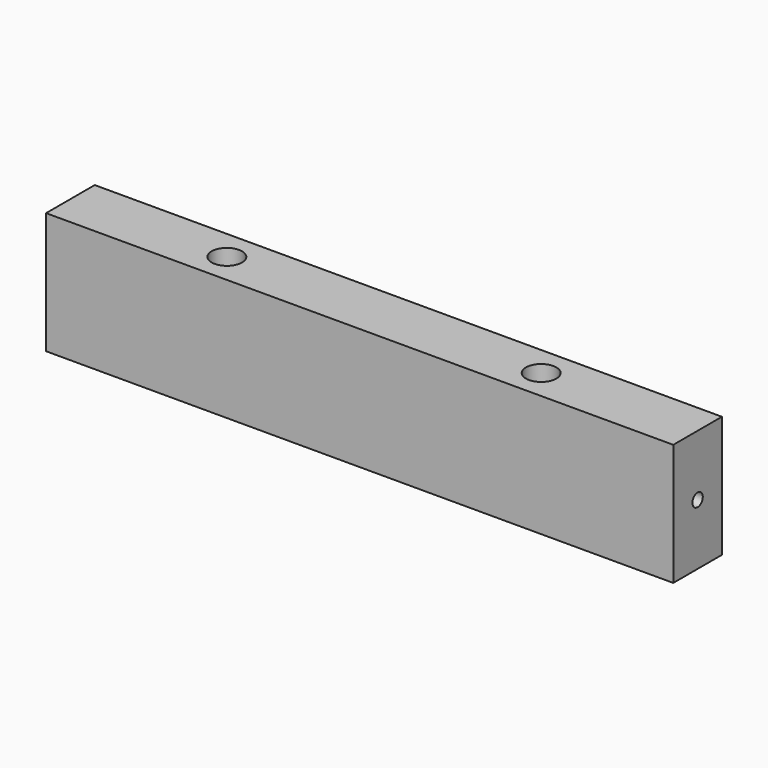
from build123d import *

# Parameters (mm, degrees)
F0_W           = 12.7
F0_H           = 25.4
F1_DEPTH       = 131
F3_D           = 3.5
F3_CBORE_D     = 6.35
F3_CBORE_DEPTH = 18.4
F5_D           = 2.7051
F5_DEPTH       = 12.7
F5_TIP         = 0.8126940303
F7_D           = 2.7051
F7_DEPTH       = 12.7
F7_TIP         = 0.8126940303


with BuildPart() as f1:
    # F0 (on Right) → F1 (new body)
    with BuildSketch(Plane.YZ):
        Rectangle(F0_W, F0_H)
    extrude(amount=F1_DEPTH)

    # F3 (through all)
    with Locations(Plane.XY.offset(12.7)):
        with Locations((32.675, 0), (98.325, 0)):
            CounterBoreHole(F3_D / 2, F3_CBORE_D / 2, F3_CBORE_DEPTH)

    # F5
    with Locations(Plane.YZ.offset(131)):
        with Locations((0, 0)):
            Hole(F5_D / 2, depth=F5_DEPTH)
            with Locations((0, 0, -(F5_DEPTH + F5_TIP / 2))):  # 118° drill point
                Cone(0, F5_D / 2, F5_TIP, mode=Mode.SUBTRACT)

    # F7
    with Locations(Plane(origin=(0, 0, 0), x_dir=(0, -1, 0), z_dir=(-1, 0, 0))):
        with Locations((0, 0)):
            Hole(F7_D / 2, depth=F7_DEPTH)
            with Locations((0, 0, -(F7_DEPTH + F7_TIP / 2))):  # 118° drill point
                Cone(0, F7_D / 2, F7_TIP, mode=Mode.SUBTRACT)


solid = f1.part
